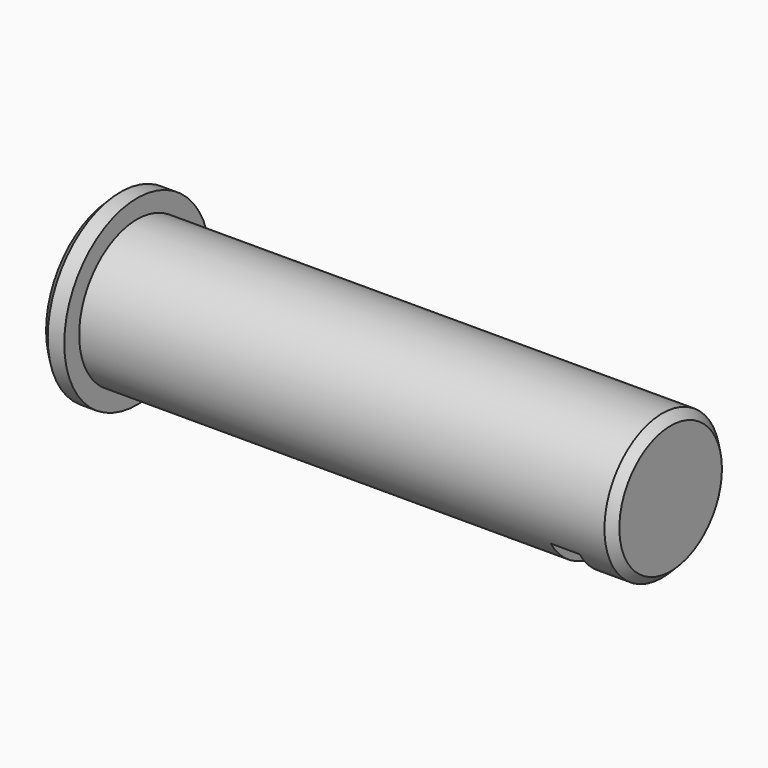
from build123d import *

# Parameters (mm, degrees)
F0_R     = 17.5
F1_DEPTH = 129
F2_SIZE  = 2
F3_R     = 22
F4_DEPTH = 6
F5_SIZE  = 2
F6_W     = 7
F6_H     = 17.894253
F7_DEPTH = 25


with BuildPart() as f1:
    # F0 (on Right) → F1 (new body)
    with BuildSketch(Plane.YZ):
        Circle(F0_R)
    extrude(amount=F1_DEPTH)

    # F2
    f2_edges = [f1.edges().sort_by_distance(p)[0] for p in [
        (129, -17.5, 0),
    ]]
    chamfer(f2_edges, length=F2_SIZE)

    # F3 (on face) → F4 (join)
    with BuildSketch(Plane(origin=(0, 0, 0), x_dir=(0, -1, 0), z_dir=(-1, 0, 0))):
        Circle(F3_R)
    extrude(amount=F4_DEPTH)

    # F5
    f5_edges = [f1.edges().sort_by_distance(p)[0] for p in [
        (-6, 22, 0),
    ]]
    chamfer(f5_edges, length=F5_SIZE)

    # F6 (on Front) → F7 (cut, symmetric)
    with BuildSketch(Plane.XZ):
        with Locations((115.5, -17.947126)):
            Rectangle(F6_W, F6_H)
    extrude(amount=F7_DEPTH, both=True, mode=Mode.SUBTRACT)


solid = f1.part
